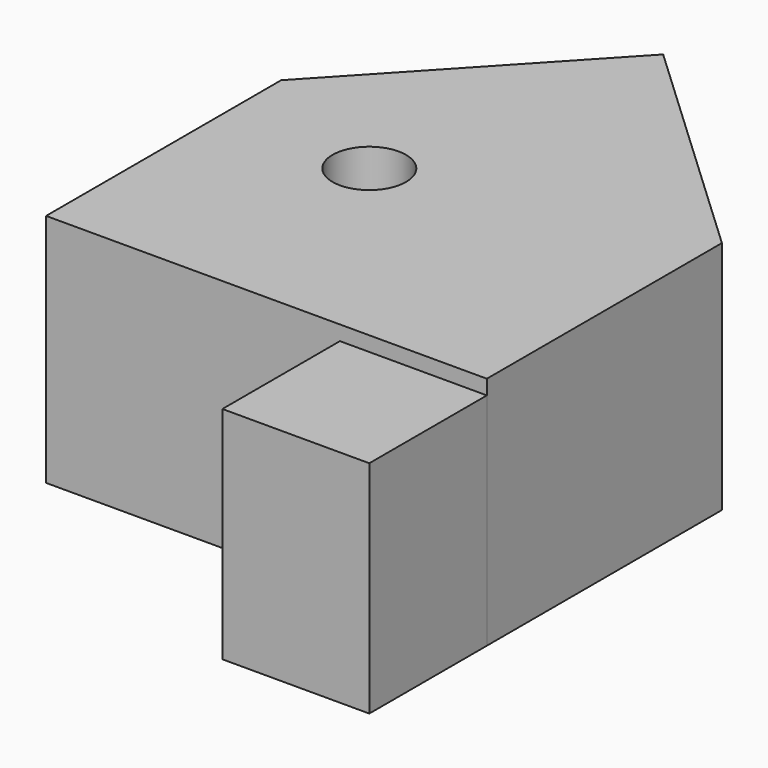
from build123d import *

# Parameters (mm, degrees)
F0_W     = 76.2
F0_H     = 50.8
F1_DEPTH = 40.64
F2_R     = 6.35
F3_DEPTH = 40.641
F4_W     = 25.4
F4_H     = 38.1
F5_DEPTH = 25.4


with BuildPart() as f1:
    # F0 (on Top) → F1 (new body)
    with BuildSketch(Plane.XY):
        with Locations((38.1, 25.4)):
            Rectangle(F0_W, F0_H)
        Polygon((35.56, 88.9), (0, 50.8), (76.2, 50.8), align=None)
    extrude(amount=F1_DEPTH)

    # F2 (on face) → F3 (cut, through all)
    with BuildSketch(Plane.XY.offset(40.64)):
        with Locations((25.4, 38.1)):
            Circle(F2_R)
    extrude(amount=-F3_DEPTH, mode=Mode.SUBTRACT)


with BuildPart() as f5:
    # F4 (on face) → F5 (new body)
    with BuildSketch(Plane.XZ):
        with Locations((63.5, 19.05)):
            Rectangle(F4_W, F4_H)
    extrude(amount=F5_DEPTH)


solid = Compound([f1.part, f5.part])
